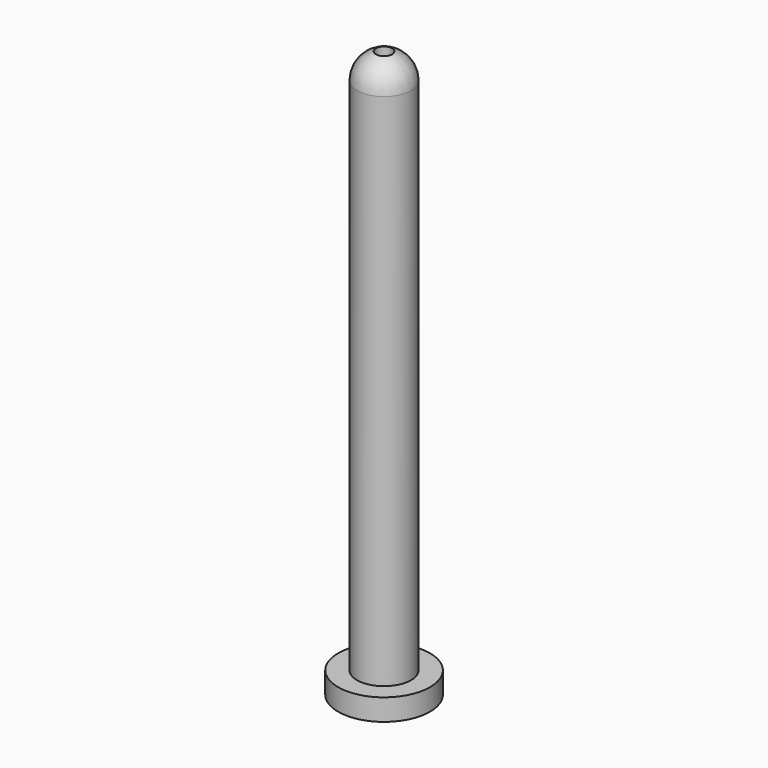
from build123d import *

# Parameters (mm, degrees)
F0_R     = 8.5
F1_DEPTH = 4
F2_R     = 5
F3_DEPTH = 100
F6_R     = 1.5
F7_DEPTH = 133.7


with BuildPart() as f1:
    # F0 (on Top) → F1 (new body)
    with BuildSketch(Plane.XY):
        Circle(F0_R)
    extrude(amount=F1_DEPTH)

    # F2 (on Top) → F3 (join)
    with BuildSketch(Plane.XY):
        Circle(F2_R)
    extrude(amount=F3_DEPTH)

    # F4 (on Right) → F5 (revolve)
    with BuildSketch(Plane.YZ):
        with BuildLine():
            Line((0, 100), (5, 100))
            ThreePointArc((5, 100), (3.535534, 103.535534), (0, 105))
            Line((0, 105), (0, 100))
        make_face()
    revolve(axis=Axis((0, 0, 102.5), (0, 0, -1)))

    # F6 (on face) → F7 (cut)
    with BuildSketch(Plane(origin=(0, 0, 0), x_dir=(1, 0, 0), z_dir=(0, 0, -1))):
        Circle(F6_R)
    extrude(amount=-F7_DEPTH, mode=Mode.SUBTRACT)


solid = f1.part
